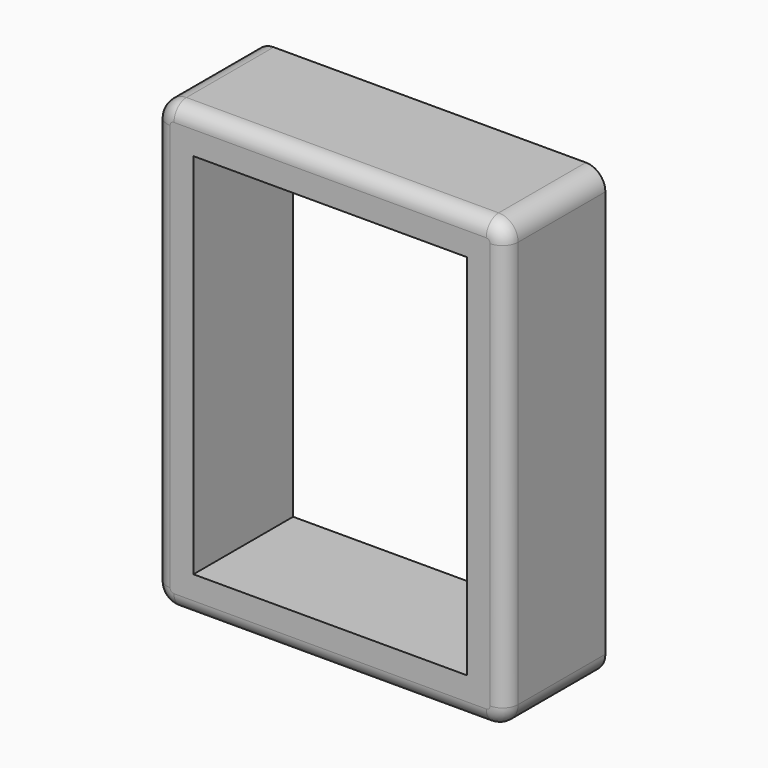
from build123d import *

# Parameters (mm, degrees)
F0_W     = 57.277
F0_H     = 72.7456
F0_W_2   = 44.577
F0_H_2   = 60.0456
F1_DEPTH = 20.32
F2_R     = 3.175
F3_R     = 2.54


with BuildPart() as f1:
    # F0 (on Front) → F1 (new body)
    with BuildSketch(Plane.XZ):
        Rectangle(F0_W, F0_H)
        Rectangle(F0_W_2, F0_H_2, mode=Mode.SUBTRACT)
    extrude(amount=F1_DEPTH)

    # F2
    f2_edges = [f1.edges().sort_by_distance(p)[0] for p in [
        (28.6385, -10.16, 36.3728),
        (28.6385, -10.16, -36.3728),
        (-28.6385, -10.16, -36.3728),
        (-28.6385, -10.16, 36.3728),
    ]]
    fillet(f2_edges, radius=F2_R)

    # F3
    f3_edges = [f1.edges().sort_by_distance(p)[0] for p in [
        (0, -20.32, 36.3728),
    ]]
    fillet(f3_edges, radius=F3_R)


solid = f1.part
